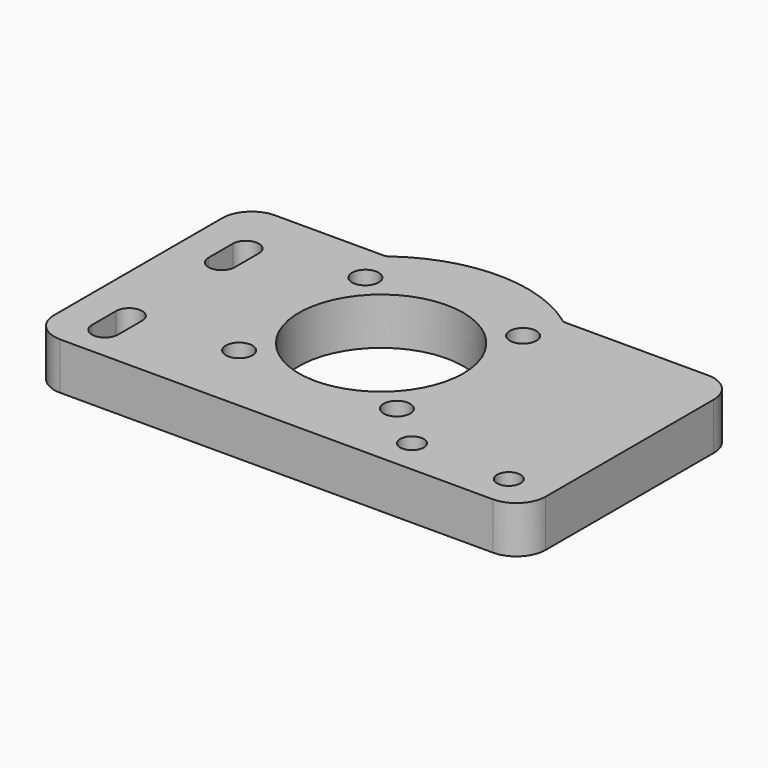
from build123d import *

# Parameters (mm, degrees)
F0_R     = 2.265
F0_R_2   = 2
F0_R_3   = 14
F1_DEPTH = 8


with BuildPart() as f1:
    # F0 (on Top) → F1 (new body)
    with BuildSketch(Plane.XY):
        with BuildLine():
            Line((-88.381675, 1.503936), (-106.949748, 1.503936))
            ThreePointArc((-106.949748, 1.503936), (-110.485281, 0.03947), (-111.949748, -3.496064))
            Line((-111.949748, -3.496064), (-111.949748, -39.266064))
            ThreePointArc((-111.949748, -39.266064), (-110.485281, -42.801598), (-106.949748, -44.266064))
            Line((-106.949748, -44.266064), (-84.717208, -44.266064))
            Line((-84.717208, -44.266064), (-33.233784, -44.266064))
            ThreePointArc((-33.233784, -44.266064), (-29.69825, -42.801598), (-28.233784, -39.266064))
            Line((-28.233784, -39.266064), (-28.233784, -3.496064))
            ThreePointArc((-28.233784, -3.496064), (-29.69825, 0.03947), (-33.233784, 1.503936))
            Line((-33.233784, 1.503936), (-57.51782, 1.503936))
            ThreePointArc((-57.51782, 1.503936), (-57.830224, 1.553986), (-58.111356, 1.699128))
            ThreePointArc((-58.111356, 1.699128), (-72.949748, 6.578936), (-87.788139, 1.699128))
            ThreePointArc((-87.788139, 1.699128), (-88.069271, 1.553986), (-88.381675, 1.503936))
        make_face()
        with BuildLine():
            Line((-101.799748, -33.231064), (-101.799748, -38.381064))
            ThreePointArc((-101.799748, -38.381064), (-104.024748, -40.606064), (-106.249748, -38.381064))
            Line((-106.249748, -38.381064), (-106.249748, -33.231064))
            ThreePointArc((-106.249748, -33.231064), (-104.024748, -31.006064), (-101.799748, -33.231064))
        make_face(mode=Mode.SUBTRACT)
        with Locations((-86.384776, -31.856093)):
            Circle(F0_R, mode=Mode.SUBTRACT)
        with Locations((-59.514719, -31.856093)):
            Circle(F0_R, mode=Mode.SUBTRACT)
        with Locations((-51.721655, -38.381064)):
            Circle(F0_R_2, mode=Mode.SUBTRACT)
        with Locations((-35.233784, -38.381064)):
            Circle(F0_R_2, mode=Mode.SUBTRACT)
        with Locations((-72.949748, -18.421064)):
            Circle(F0_R_3, mode=Mode.SUBTRACT)
        with BuildLine():
            Line((-106.249748, -13.531064), (-106.249748, -8.381064))
            ThreePointArc((-106.249748, -8.381064), (-104.024748, -6.156064), (-101.799748, -8.381064))
            Line((-101.799748, -8.381064), (-101.799748, -13.531064))
            ThreePointArc((-101.799748, -13.531064), (-104.024748, -15.756064), (-106.249748, -13.531064))
        make_face(mode=Mode.SUBTRACT)
        with Locations((-86.384776, -4.986036)):
            Circle(F0_R, mode=Mode.SUBTRACT)
        with Locations((-59.514719, -4.986036)):
            Circle(F0_R, mode=Mode.SUBTRACT)
    extrude(amount=F1_DEPTH)


solid = f1.part
